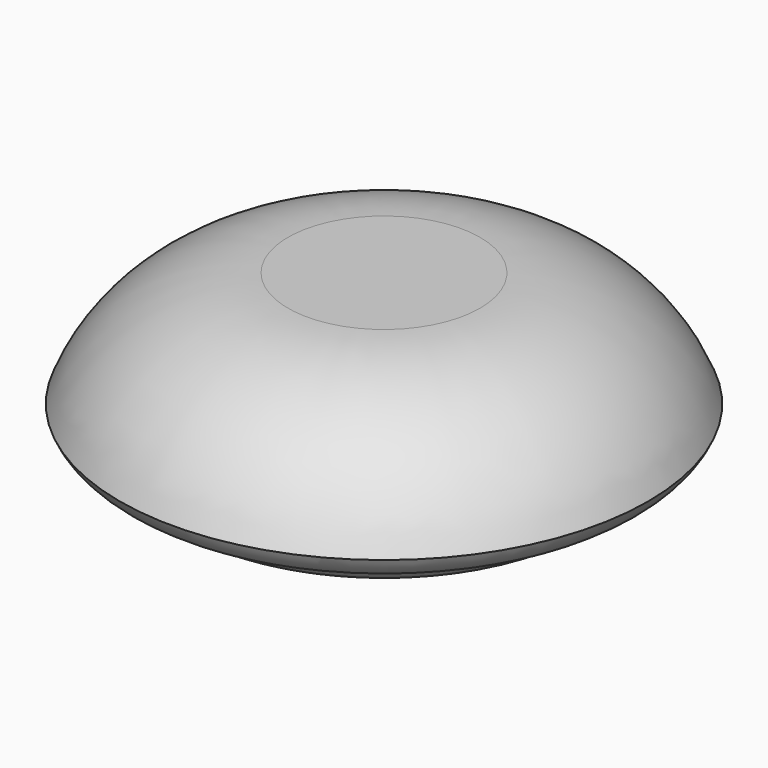
from build123d import *


with BuildPart() as f1:
    # F0 (on Front) → F1 (revolve)
    with BuildSketch(Plane.XZ):
        with BuildLine():
            Line((16, -14), (0, -14))
            Line((0, -14), (0, -15))
            ThreePointArc((0, -15), (8.045928, -15.23484), (16, -14))
        make_face()
        with BuildLine():
            Line((18, -12), (0, -12))
            Line((0, -12), (0, -14))
            Line((0, -14), (16, -14))
            ThreePointArc((16, -14), (17.250492, -13.250492), (18, -12))
        make_face()
        with BuildLine():
            Line((8, 0), (0, 0))
            Line((0, 0), (0, -12))
            Line((0, -12), (18, -12))
            ThreePointArc((18, -12), (20.382913, -11.449575), (22, -9.614835))
            ThreePointArc((22, -9.614835), (16.491835, -2.635182), (8, 0))
        make_face()
    revolve(axis=Axis((0, 0, -6), (0, 0, 1)))


solid = f1.part
